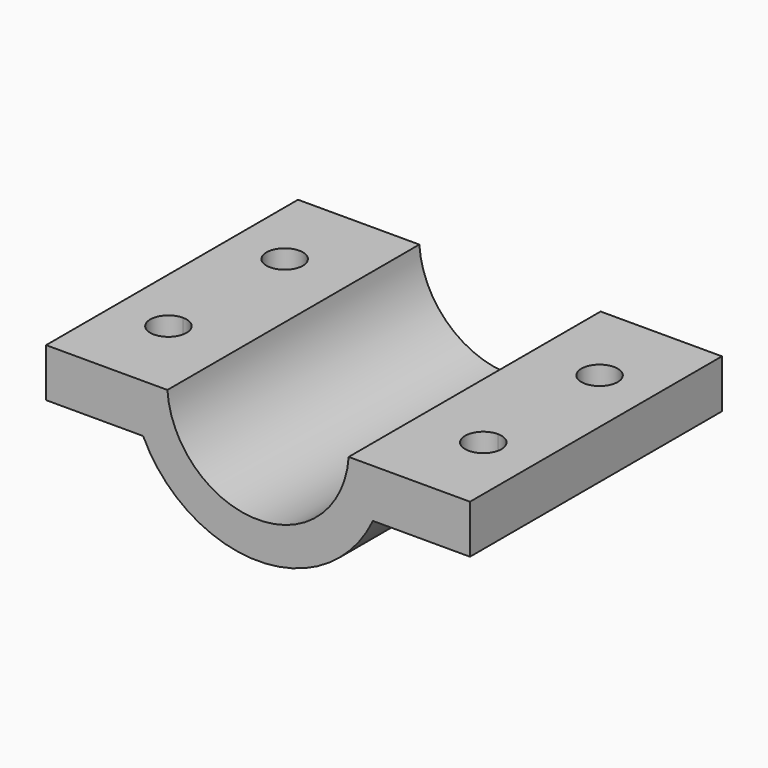
from build123d import *

# Parameters (mm, degrees)
F1_DEPTH = 13
F3_DEPTH = 10.501


with BuildPart() as f1:
    # F0 (on Front) → F1 (new body, symmetric)
    with BuildSketch(Plane.XZ):
        with BuildLine():
            ThreePointArc((7.483315, -0.5), (0, -7.5), (-7.483315, -0.5))
            Line((-7.483315, -0.5), (-10.488088, -0.5))
            Line((-10.488088, -0.5), (-17.5, -0.5))
            Line((-17.5, -0.5), (-17.5, -4.5))
            Line((-17.5, -4.5), (-9.486833, -4.5))
            ThreePointArc((-9.486833, -4.5), (0, -10.5), (9.486833, -4.5))
            Line((9.486833, -4.5), (17.5, -4.5))
            Line((17.5, -4.5), (17.5, -0.5))
            Line((17.5, -0.5), (10.488088, -0.5))
            Line((10.488088, -0.5), (7.483315, -0.5))
        make_face()
    extrude(amount=F1_DEPTH, both=True)

    # F2 (on Top) → F3 (cut, through all)
    with BuildSketch(Plane.XY):
        with BuildLine():
            ThreePointArc((14.5, 6), (11.93934, 7.06066), (13, 4.5))
            ThreePointArc((13, 4.5), (14.06066, 4.93934), (14.5, 6))
        make_face()
        with BuildLine():
            ThreePointArc((14.5, -6), (14.06066, -4.93934), (13, -4.5))
            ThreePointArc((13, -4.5), (11.93934, -7.06066), (14.5, -6))
        make_face()
        with BuildLine():
            ThreePointArc((-11.5, 6), (-14.06066, 7.06066), (-13, 4.5))
            ThreePointArc((-13, 4.5), (-11.93934, 4.93934), (-11.5, 6))
        make_face()
        with BuildLine():
            ThreePointArc((-11.5, -6), (-11.93934, -4.93934), (-13, -4.5))
            ThreePointArc((-13, -4.5), (-14.06066, -7.06066), (-11.5, -6))
        make_face()
    extrude(amount=-F3_DEPTH, mode=Mode.SUBTRACT)


solid = f1.part
